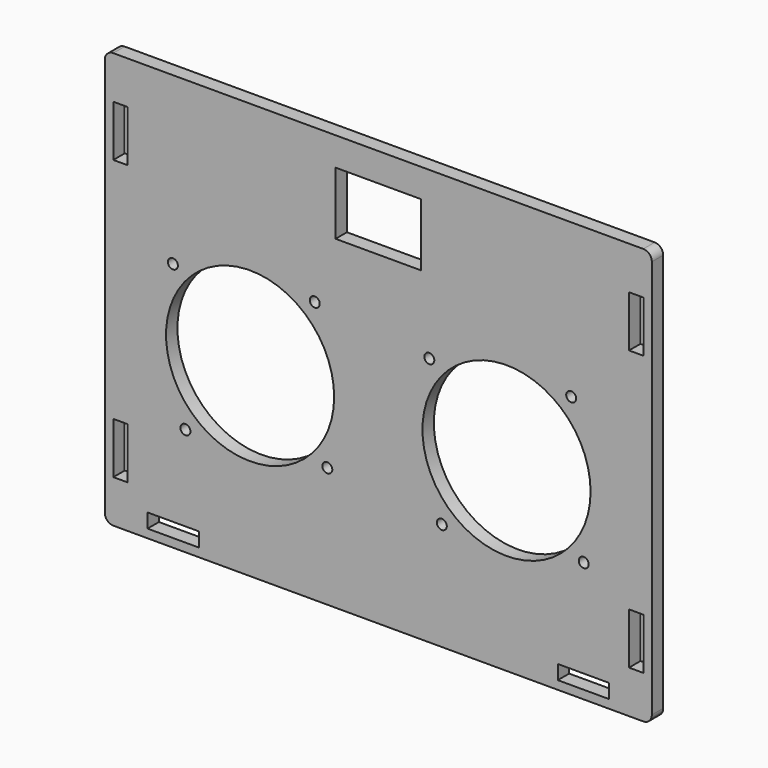
from build123d import *

# Parameters (mm, degrees)
F0_W     = 18
F0_H     = 5
F0_W_2   = 5
F0_H_2   = 18
F0_R     = 1.75
F0_R_2   = 29.5
F0_W_3   = 30
F0_H_3   = 22
F1_DEPTH = 5


with BuildPart() as f1:
    # F0 (on Front) → F1 (new body)
    with BuildSketch(Plane.XZ):
        with BuildLine():
            Line((93, 73), (-93, 73))
            ThreePointArc((-93, 73), (-95.12132, 72.12132), (-96, 70))
            Line((-96, 70), (-96, -70))
            ThreePointArc((-96, -70), (-95.12132, -72.12132), (-93, -73))
            Line((-93, -73), (93, -73))
            ThreePointArc((93, -73), (95.12132, -72.12132), (96, -70))
            Line((96, -70), (96, 70))
            ThreePointArc((96, 70), (95.12132, 72.12132), (93, 73))
        make_face()
        with Locations((-72, -67.5)):
            Rectangle(F0_W, F0_H, mode=Mode.SUBTRACT)
        with Locations((-90.5, -49)):
            Rectangle(F0_W_2, F0_H_2, mode=Mode.SUBTRACT)
        with Locations((-67.7, -35.1)):
            Circle(F0_R, mode=Mode.SUBTRACT)
        with Locations((-17.9, -30.7)):
            Circle(F0_R, mode=Mode.SUBTRACT)
        with Locations((-45, -8)):
            Circle(F0_R_2, mode=Mode.SUBTRACT)
        with Locations((72, -67.5)):
            Rectangle(F0_W, F0_H, mode=Mode.SUBTRACT)
        with Locations((90.5, -49)):
            Rectangle(F0_W_2, F0_H_2, mode=Mode.SUBTRACT)
        with Locations((22.3, -35.1)):
            Circle(F0_R, mode=Mode.SUBTRACT)
        with Locations((45, -8)):
            Circle(F0_R_2, mode=Mode.SUBTRACT)
        with Locations((72.1, -30.7)):
            Circle(F0_R, mode=Mode.SUBTRACT)
        with Locations((-72.1, 14.7)):
            Circle(F0_R, mode=Mode.SUBTRACT)
        with Locations((-22.3, 19.1)):
            Circle(F0_R, mode=Mode.SUBTRACT)
        with Locations((-90.5, 49)):
            Rectangle(F0_W_2, F0_H_2, mode=Mode.SUBTRACT)
        with Locations((-72, 67.5)):
            Rectangle(F0_W, F0_H, mode=Mode.SUBTRACT)
        with Locations((17.9, 14.7)):
            Circle(F0_R, mode=Mode.SUBTRACT)
        with Locations((67.7, 19.1)):
            Circle(F0_R, mode=Mode.SUBTRACT)
        with Locations((0, 52)):
            Rectangle(F0_W_3, F0_H_3, mode=Mode.SUBTRACT)
        with Locations((90.5, 49)):
            Rectangle(F0_W_2, F0_H_2, mode=Mode.SUBTRACT)
        with Locations((72, 67.5)):
            Rectangle(F0_W, F0_H, mode=Mode.SUBTRACT)
        with Locations((-72, 67.5)):
            Rectangle(F0_W, F0_H)
        with Locations((72, 67.5)):
            Rectangle(F0_W, F0_H)
    extrude(amount=F1_DEPTH)


solid = f1.part
